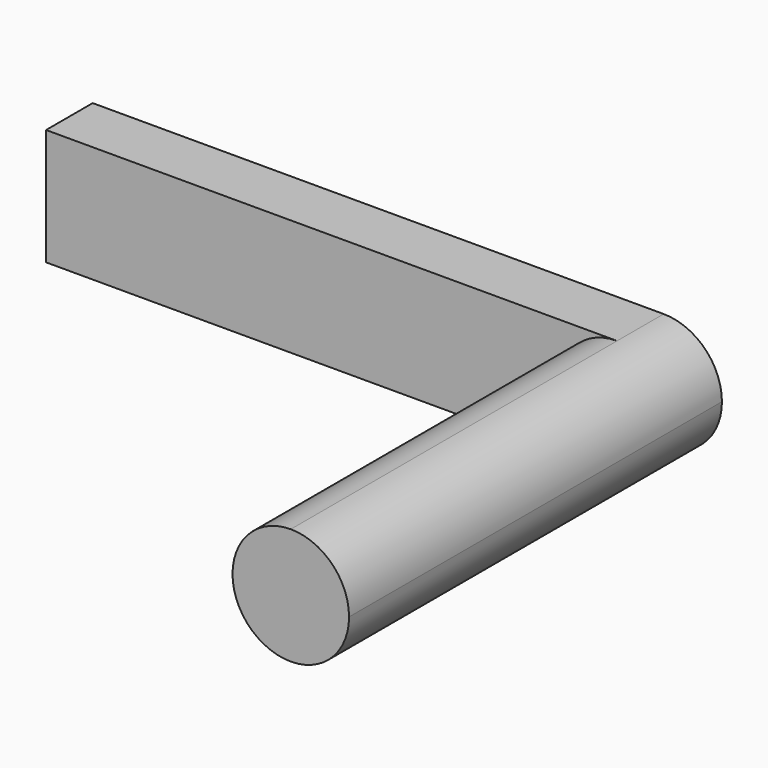
from build123d import *

# Parameters (mm, degrees)
F1_DEPTH = 10.16
F2_DEPTH = 1.27


with BuildPart() as f1:
    # F0 (on Front) → F1 (new body)
    with BuildSketch(Plane.XZ):
        with BuildLine():
            ThreePointArc((0, -1.27), (0.898026, -0.898026), (1.27, 0))
            ThreePointArc((1.27, 0), (0.898026, 0.898026), (0, 1.27))
            ThreePointArc((0, 1.27), (-1.27, 0), (0, -1.27))
        make_face()
    extrude(amount=F1_DEPTH)

    # F0 (on Front) → F2 (join)
    with BuildSketch(Plane.XZ):
        with BuildLine():
            ThreePointArc((0, -1.27), (-1.27, 0), (0, 1.27))
            Line((0, 1.27), (-12.446, 1.27))
            Line((-12.446, 1.27), (-12.446, 0))
            Line((-12.446, 0), (-12.446, -1.27))
            Line((-12.446, -1.27), (0, -1.27))
        make_face()
    extrude(amount=F2_DEPTH)


solid = f1.part
